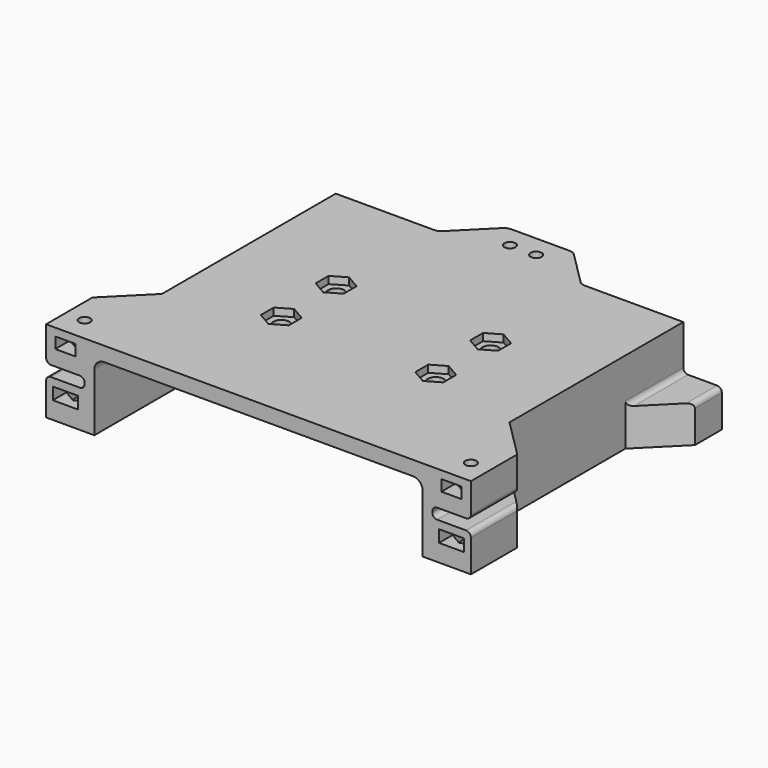
from build123d import *

# Parameters (mm, degrees)
PAD_DEPTH       = 73
POCKET_DEPTH    = 17.001
SKETCH006_R     = 1.4
POCKET001_DEPTH = 5.7
POCKET002_DEPTH = 2.5
POCKET003_DEPTH = 2
SKETCH007_R     = 1.65
POCKET004_DEPTH = 17.001
POCKET007_DEPTH = 1.5
SKETCH021_R     = 1.15
POCKET012_DEPTH = 5.7
POCKET014_DEPTH = 1.8
POCKET015_DEPTH = 2.3
POCKET017_DEPTH = 17.001
SKETCH028_W     = 44
SKETCH028_H     = 65
POCKET018_DEPTH = 8.2


with BuildPart() as part:
    # Sketch → Pad (new body)
    with BuildSketch(Plane.XZ):
        with BuildLine():
            Line((-44, 0), (-34, 0))
            Line((-34, 0), (-34, 12))
            ThreePointArc((-32, 14), (-33.414214, 13.414214), (-34, 12))
            Line((-32, 14), (32, 14))
            ThreePointArc((34, 12), (33.414214, 13.414214), (32, 14))
            Line((34, 0), (34, 12))
            Line((34, 0), (44, 0))
            Line((44, 0), (44, 6.7))
            ThreePointArc((44, 6.7), (43.707107, 7.407107), (43, 7.7))
            Line((43, 7.7), (37, 7.7))
            ThreePointArc((36, 8.7), (36.292893, 7.992893), (37, 7.7))
            Line((36, 8.7), (36, 8.9))
            ThreePointArc((37, 9.9), (36.292893, 9.607107), (36, 8.9))
            Line((37, 9.9), (43, 9.9))
            ThreePointArc((43, 9.9), (43.707107, 10.192893), (44, 10.9))
            Line((44, 17), (44, 10.9))
            Line((-44, 17), (44, 17))
            Line((-44, 10.9), (-44, 17))
            ThreePointArc((-44, 10.9), (-43.707107, 10.192893), (-43, 9.9))
            Line((-37, 9.9), (-43, 9.9))
            ThreePointArc((-36, 8.9), (-36.292893, 9.607107), (-37, 9.9))
            Line((-36, 8.7), (-36, 8.9))
            ThreePointArc((-37, 7.7), (-36.292893, 7.992893), (-36, 8.7))
            Line((-43, 7.7), (-37, 7.7))
            ThreePointArc((-43, 7.7), (-43.707107, 7.407107), (-44, 6.7))
            Line((-44, 0), (-44, 6.7))
        make_face()
    extrude(amount=-PAD_DEPTH)

    # Sketch001 → Pocket (cut, through all)
    with BuildSketch(Plane.XY):
        Polygon((-66, 80), (-36, 50), (-36, 20), (-66, -10), align=None)
        Polygon((36, 20), (66, -10), (66, 80), (36, 50), align=None)
    extrude(amount=POCKET_DEPTH, mode=Mode.SUBTRACT)

    # Sketch006 → Pocket001 (cut)
    with BuildSketch(Plane.XY):
        with Locations((-40, 60)):
            Circle(SKETCH006_R)
        with Locations((40, 60)):
            Circle(SKETCH006_R)
        with Locations((40, 5)):
            Circle(SKETCH006_R)
        with Locations((-40, 5)):
            Circle(SKETCH006_R)
    extrude(amount=POCKET001_DEPTH, mode=Mode.SUBTRACT)

    # Sketch005 (on DatumPlane) → Pocket002 (cut)
    with BuildSketch(Plane.XY.offset(3.6)):
        Polygon((-37.4, 3.498889), (-37.4, 6.501111), (-40, 8.002221), (-42.6, 6.501111), (-42.6, 3.498889), (-42.6, -6.501111), (-37.4, -6.501111), align=None)
        Polygon((42.6, 3.498889), (42.6, 6.501111), (40, 8.002221), (37.4, 6.501111), (37.4, 3.498889), (37.4, -6.501111), (42.6, -6.501111), align=None)
        Polygon((-40, 56.997779), (-37.4, 58.498889), (-37.4, 61.501111), (-37.4, 71.501111), (-42.6, 71.501111), (-42.6, 61.501111), (-42.6, 58.498889), align=None)
        Polygon((37.4, 58.498889), (40, 56.997779), (42.6, 58.498889), (42.6, 61.501111), (42.6, 71.501111), (37.4, 71.501111), (37.4, 61.501111), align=None)
    extrude(amount=POCKET002_DEPTH, mode=Mode.SUBTRACT)

    # Sketch004 (on DatumPlane) → Pocket003 (cut)
    with BuildSketch(Plane.XY.offset(1.6)):
        Polygon((-40, 1.997779), (-37.4, 3.498889), (-37.4, 6.501111), (-40, 8.002221), (-42.6, 6.501111), (-42.6, 3.498889), align=None)
        Polygon((40, 1.997779), (42.6, 3.498889), (42.6, 6.501111), (40, 8.002221), (37.4, 6.501111), (37.4, 3.498889), align=None)
        Polygon((40, 56.997779), (42.6, 58.498889), (42.6, 61.501111), (40, 63.002221), (37.4, 61.501111), (37.4, 58.498889), align=None)
        Polygon((-40, 56.997779), (-37.4, 58.498889), (-37.4, 61.501111), (-40, 63.002221), (-42.6, 61.501111), (-42.6, 58.498889), align=None)
    extrude(amount=POCKET003_DEPTH, mode=Mode.SUBTRACT)

    # Sketch007 → Pocket004 (cut, through all)
    with BuildSketch(Plane.XY):
        with Locations((-16, 40.1)):
            Circle(SKETCH007_R)
        with Locations((-16, 25.9)):
            Circle(SKETCH007_R)
        with Locations((16, 40.1)):
            Circle(SKETCH007_R)
        with Locations((16, 25.9)):
            Circle(SKETCH007_R)
    extrude(amount=POCKET004_DEPTH, mode=Mode.SUBTRACT)

    # Sketch008 (on DatumPlane) → Pocket007 (cut)
    with BuildSketch(Plane.XY.offset(17)):
        Polygon((-18.9, 41.774316), (-18.9, 38.425684), (-16, 36.751368), (-13.1, 38.425684), (-13.1, 41.774316), (-16, 43.448632), align=None)
        Polygon((13.1, 41.774316), (13.1, 38.425684), (16, 36.751368), (18.9, 38.425684), (18.9, 41.774316), (16, 43.448632), align=None)
        Polygon((-18.9, 27.574316), (-18.9, 24.225684), (-16, 22.551368), (-13.1, 24.225684), (-13.1, 27.574316), (-16, 29.248632), align=None)
        Polygon((13.1, 27.574316), (13.1, 24.225684), (16, 22.551368), (18.9, 24.225684), (18.9, 27.574316), (16, 29.248632), align=None)
    extrude(amount=-POCKET007_DEPTH, mode=Mode.SUBTRACT)

    # Sketch021 (on DatumPlane) → Pocket012 (cut)
    with BuildSketch(Plane.XY.offset(17)):
        with Locations((-2.7, 68.5)):
            Circle(SKETCH021_R)
        with Locations((2.7, 68.5)):
            Circle(SKETCH021_R)
        with Locations((-40, 5)):
            Circle(SKETCH021_R)
        with Locations((40, 5)):
            Circle(SKETCH021_R)
    extrude(amount=-POCKET012_DEPTH, mode=Mode.SUBTRACT)

    # Sketch024 (on DatumPlane) → Pocket014 (cut)
    with BuildSketch(Plane.XY.offset(13.1)):
        Polygon((0.6, 67.287564), (2.7, 66.075129), (4.8, 67.287564), (4.8, 69.712436), (2.7, 70.924871), (0.6, 69.712436), align=None)
        Polygon((40, 7.424871), (37.9, 6.212436), (37.9, 3.787564), (40, 2.575129), (42.1, 3.787564), (42.1, 6.212436), align=None)
        Polygon((-37.9, 6.212436), (-40, 7.424871), (-42.1, 6.212436), (-42.1, 3.787564), (-40, 2.575129), (-37.9, 3.787564), align=None)
        Polygon((-4.8, 67.287564), (-2.7, 66.075129), (-0.6, 67.287564), (-0.6, 69.712436), (-2.7, 70.924871), (-4.8, 69.712436), align=None)
    extrude(amount=-POCKET014_DEPTH, mode=Mode.SUBTRACT)

    # Sketch025 (on DatumPlane) → Pocket015 (cut)
    with BuildSketch(Plane.XY.offset(13.1)):
        Polygon((2.7, 66.075129), (4.8, 67.287564), (4.8, 69.712436), (4.8, 89.712436), (0.6, 89.712436), (0.6, 69.712436), (0.6, 67.287564), align=None)
        Polygon((40, 7.424871), (37.9, 6.212436), (37.9, 3.787564), (37.9, -16.212436), (42.1, -16.212436), (42.1, 3.787564), (42.1, 6.212436), align=None)
        Polygon((-40, 7.424871), (-42.1, 6.212436), (-42.1, 3.787564), (-42.1, -16.212436), (-37.9, -16.212436), (-37.9, 3.787564), (-37.9, 6.212436), align=None)
        Polygon((-2.7, 66.075129), (-0.6, 67.287564), (-0.6, 69.712436), (-0.6, 89.712436), (-4.8, 89.712436), (-4.8, 69.712436), (-4.8, 67.287564), align=None)
    extrude(amount=POCKET015_DEPTH, mode=Mode.SUBTRACT)

    # Sketch027 → Pocket017 (cut, through all)
    with BuildSketch(Plane.XY):
        with BuildLine():
            Line((-65, 65), (-15.656854, 65))
            ThreePointArc((-15.656854, 65), (-14.891487, 65.152241), (-14.242641, 65.585786))
            Line((-14.242641, 65.585786), (-7.414214, 72.414214))
            ThreePointArc((-6, 73), (-6.765367, 72.847759), (-7.414214, 72.414214))
            Line((-6, 73), (6, 73))
            ThreePointArc((7.414214, 72.414214), (6.765367, 72.847759), (6, 73))
            Line((14.242641, 65.585786), (7.414214, 72.414214))
            ThreePointArc((14.242641, 65.585786), (14.891487, 65.152241), (15.656854, 65))
            Line((15.656854, 65), (65, 65))
            Line((65, 65), (65, 97))
            Line((65, 97), (-65, 97))
            Line((-65, 65), (-65, 97))
        make_face()
    extrude(amount=POCKET017_DEPTH, mode=Mode.SUBTRACT)

    # Sketch028 (on DatumPlane) → Pocket018 (cut)
    with BuildSketch(Plane.XY.offset(17)):
        with Locations((-58, 65)):
            Rectangle(SKETCH028_W, SKETCH028_H)
        with Locations((58, 65)):
            Rectangle(SKETCH028_W, SKETCH028_H)
    extrude(amount=-POCKET018_DEPTH, mode=Mode.SUBTRACT)


solid = part.part
